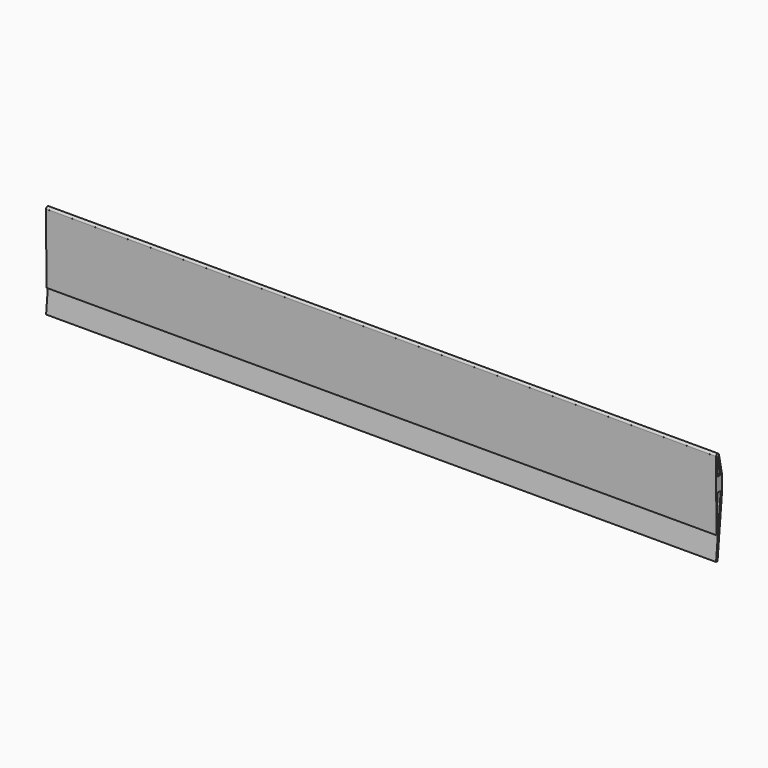
from build123d import *

# Parameters (mm, degrees)
F1_DEPTH = 723.9
F2_SCALE = 0.125


with BuildPart() as f1:
    # F0 (on Right) → F1 (new body, symmetric)
    with BuildSketch(Plane.YZ):
        with BuildLine():
            Line((-15.8299067503, -142.596029821), (-11.8872214526, -143.0259399152))
            Line((-11.8872214526, -143.0259399152), (0, -18.7500006))
            Line((0, -18.7500006), (0, 18.7499994))
            Line((0, 18.7499994), (-7.9508239998, 58.7499994))
            ThreePointArc((-7.9508239998, 58.7499994), (-7.8920606963, 58.3597218998), (-7.8724079566, 57.9655348594))
            ThreePointArc((-7.8724079566, 57.9655348594), (-8.7715551646, 55.4519182766), (-11.0609952128, 54.0788930426))
            Line((-11.0609952128, 54.0788930426), (-3.9423238, 18.3539213456))
            Line((-3.9423238, 18.3539213456), (-11.835459815, 17.9655348594))
            Line((-11.835459815, 17.9655348594), (-11.835459815, 54.0024830011))
            ThreePointArc((-11.835459815, 54.0024830011), (-14.6385433533, 55.16401693), (-15.7985110549, 57.9677489647))
            Line((-15.7985110549, 57.9677489647), (-15.8207233853, 57.9655348594))
            Line((-15.8207233853, 57.9655348594), (-14.9394494697, -92.0344651406))
            Line((-14.9394494697, -92.0344651406), (-11.835459815, -12.0344651406))
            Line((-11.835459815, -12.0344651406), (-3.9423238, -12.0344651406))
            Line((-3.9423238, -12.0344651406), (-3.9423238, -18.5344211826))
            Line((-3.9423238, -18.5344211826), (-10.9737931654, -91.8188857231))
            Line((-10.9737931654, -91.8188857231), (-15.8299067503, -142.596029821))
        make_face()
        with BuildLine():
            ThreePointArc((-7.8724079566, 57.9655348594), (-7.8920606963, 58.3597218998), (-7.9508239998, 58.7499994))
            Line((-7.9508239998, 58.7499994), (-15.7985110549, 57.9677489647))
            ThreePointArc((-15.7985110549, 57.9677489647), (-14.6385433533, 55.16401693), (-11.835459815, 54.0024830011))
            Line((-11.835459815, 54.0024830011), (-11.835459815, 57.9655348594))
            Line((-11.835459815, 57.9655348594), (-11.0609952128, 54.0788930426))
            ThreePointArc((-11.0609952128, 54.0788930426), (-8.7715551646, 55.4519182766), (-7.8724079566, 57.9655348594))
        make_face()
        with BuildLine():
            Line((-15.7985110549, 57.9677489647), (-7.9508239998, 58.7499994))
            ThreePointArc((-7.9508239998, 58.7499994), (-12.2285452772, 61.9090439379), (-15.7985110549, 57.9677489647))
        make_face()
    extrude(amount=F1_DEPTH, both=True)


with BuildPart() as f1_1:
    # F2: moved
    add(f1.part.scale(F2_SCALE))


solid = f1_1.part
